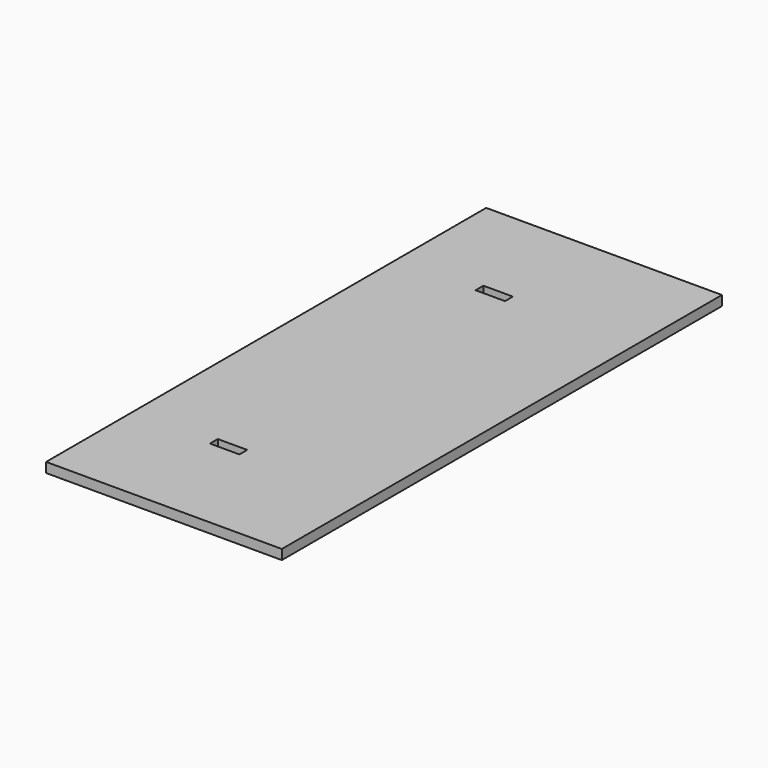
from build123d import *

# Parameters (mm, degrees)
BOX005_W     = 15
BOX005_H     = 5
BOX005_DEPTH = 16
BOX004_W     = 15
BOX004_H     = 5
BOX004_DEPTH = 16
BOX_W        = 120
BOX_H        = 280
BOX_DEPTH    = 5


with BuildPart() as cubo004:
    # Box005 → Box005 (new body)
    with BuildSketch(Plane(origin=(35, 82, 69), x_dir=(1, 0, 0), z_dir=(0, 0, 1))):
        with Locations((7.5, 2.5)):
            Rectangle(BOX005_W, BOX005_H)
    extrude(amount=BOX005_DEPTH)


with BuildPart() as cubo003:
    # Box004 → Box004 (new body)
    with BuildSketch(Plane(origin=(35, -87, 68), x_dir=(1, 0, 0), z_dir=(0, 0, 1))):
        with Locations((7.5, 2.5)):
            Rectangle(BOX004_W, BOX004_H)
    extrude(amount=BOX004_DEPTH)


with BuildPart() as obj1:
    # Box → Box (new body)
    with BuildSketch(Plane(origin=(-6, -140, 73.5), x_dir=(1, 0, 0), z_dir=(0, 0, 1))):
        with Locations((60, 140)):
            Rectangle(BOX_W, BOX_H)
    extrude(amount=BOX_DEPTH)

    # Cut003: cut Cubo003
    add(cubo003.part, mode=Mode.SUBTRACT)

    # Cut004: cut Cubo004
    add(cubo004.part, mode=Mode.SUBTRACT)


with BuildPart() as obj1_1:
    # Cut004 placement: moved
    add(obj1.part.moved(Location((0, 0, -70))))


solid = obj1_1.part
